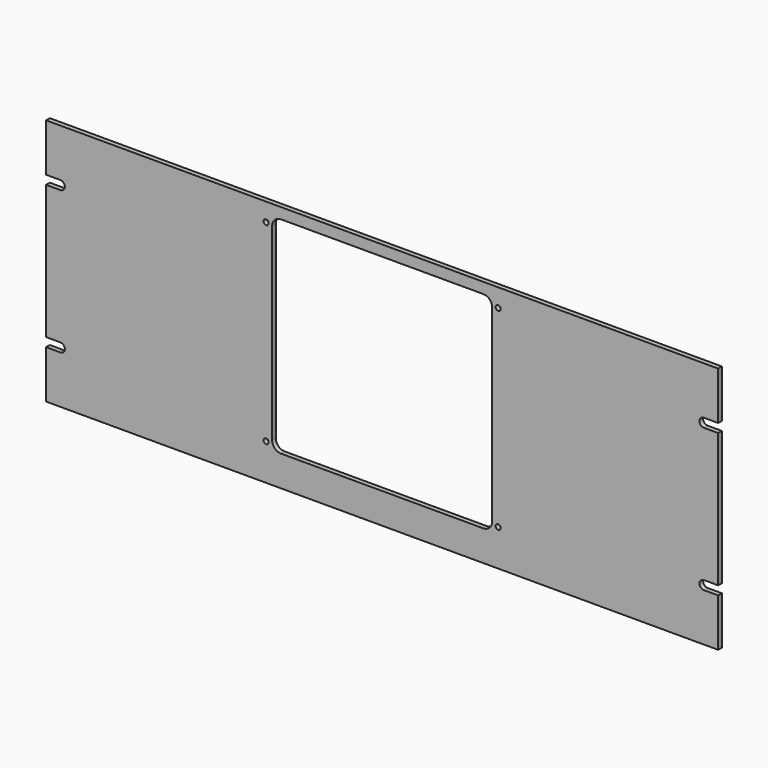
from build123d import *

# Parameters (mm, degrees)
F1_DEPTH = 3.3528
F3_DEPTH = 3.3528
F4_D     = 3.6576


with BuildPart() as f1:
    # F0 (on Front) → F1 (new body)
    with BuildSketch(Plane.XZ):
        with BuildLine():
            Line((-256.0487464639, -118.0957335805), (-256.0487464639, -152.5127335805))
            Line((-256.0487464639, -152.5127335805), (226.5512535361, -152.5127335805))
            Line((226.5512535361, -152.5127335805), (226.5512535361, -118.0957335805))
            Line((226.5512535361, -118.0957335805), (216.2642535361, -118.0957335805))
            ThreePointArc((216.2642535361, -118.0957335805), (213.0892535361, -114.9207335805), (216.2642535361, -111.7457335805))
            Line((216.2642535361, -111.7457335805), (226.5512535361, -111.7457335805))
            Line((226.5512535361, -111.7457335805), (226.5512535361, -15.4797335805))
            Line((226.5512535361, -15.4797335805), (216.2642535361, -15.4797335805))
            ThreePointArc((216.2642535361, -15.4797335805), (213.0892535361, -12.3047335805), (216.2642535361, -9.1297335805))
            Line((216.2642535361, -9.1297335805), (226.5512535361, -9.1297335805))
            Line((226.5512535361, -9.1297335805), (226.5512535361, 25.2872664195))
            Line((226.5512535361, 25.2872664195), (-256.0487464639, 25.2872664195))
            Line((-256.0487464639, 25.2872664195), (-256.0487464639, -9.1297335805))
            Line((-256.0487464639, -9.1297335805), (-245.7617464639, -9.1297335805))
            ThreePointArc((-245.7617464639, -9.1297335805), (-242.5867464639, -12.3047335805), (-245.7617464639, -15.4797335805))
            Line((-245.7617464639, -15.4797335805), (-256.0487464639, -15.4797335805))
            Line((-256.0487464639, -15.4797335805), (-256.0487464639, -111.7457335805))
            Line((-256.0487464639, -111.7457335805), (-245.7617464639, -111.7457335805))
            ThreePointArc((-245.7617464639, -111.7457335805), (-242.5867464639, -114.9207335805), (-245.7617464639, -118.0957335805))
            Line((-245.7617464639, -118.0957335805), (-256.0487464639, -118.0957335805))
        make_face()
    extrude(amount=F1_DEPTH)

    # F2 (on face) → F3 (cut, through all)
    with BuildSketch(Plane.XZ.offset(3.3528)):
        with BuildLine():
            ThreePointArc((64.2454358226, 11.190272807), (62.3855638831, 15.6804008674), (57.8954358226, 17.5402728069))
            Line((57.8954358226, 17.5402728069), (-87.3925641774, 17.5402728068))
            ThreePointArc((-87.3925641774, 17.5402728068), (-91.8826922379, 15.6804008674), (-93.7425641774, 11.1902728068))
            Line((-93.7425641774, 11.1902728068), (-93.7425641774, -124.1917271931))
            ThreePointArc((-93.7425641774, -124.1917271931), (-91.882692238, -128.6818552537), (-87.3925641774, -130.5417271931))
            Line((-87.3925641774, -130.5417271931), (57.8954358225, -130.5417271931))
            ThreePointArc((57.8954358225, -130.5417271931), (62.3855638831, -128.6818552536), (64.2454358226, -124.1917271931))
            Line((64.2454358226, -124.1917271931), (64.2454358226, 11.190272807))
        make_face()
    extrude(amount=-F3_DEPTH, mode=Mode.SUBTRACT)

    # F4 (through all)
    with Locations(Plane.XZ.offset(3.3528)):
        with Locations((-98.0605641774, -126.2237271929), (68.5634358226, -126.2237271929), (68.5634358226, 12.2062728071), (-98.0605641774, 12.2062728071)):
            Hole(F4_D / 2)


solid = f1.part
